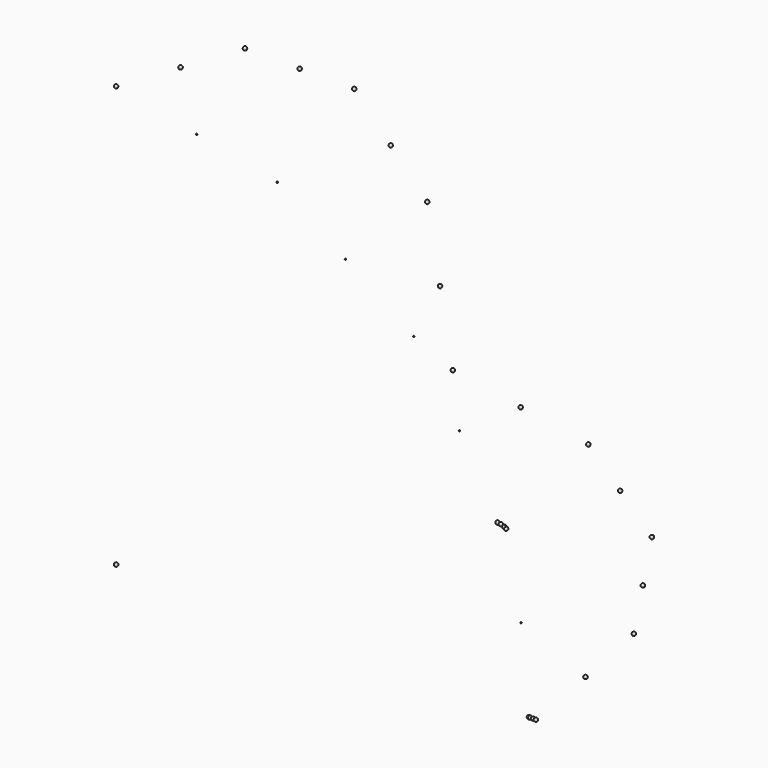
from build123d import *

# Parameters (mm, degrees)
SPHERE025_PLACEMENT_ANGLE = 314.444216
SPHERE026_PLACEMENT_ANGLE = 337.104281
SPHERE029_PLACEMENT_ANGLE = 45.555784
SPHERE030_PLACEMENT_ANGLE = 45.555784
SPHERE031_PLACEMENT_ANGLE = 22.895719
SPHERE032_PLACEMENT_ANGLE = 45.555784


with BuildPart() as sphere:
    # Sphere → Sphere (revolve)
    with BuildSketch(Plane(origin=(3500, 0, 0), x_dir=(1, 0, 0), z_dir=(0, -1, 0))):
        with BuildLine():
            ThreePointArc((0, -5), (5, 0), (0, 5))
            Line((0, 5), (0, -5))
        make_face()
    revolve(axis=Axis((3500, 0, 0), (0, 0, 1)))


with BuildPart() as sphere001:
    # Sphere001 → Sphere001 (revolve)
    with BuildSketch(Plane.XZ):
        with BuildLine():
            ThreePointArc((0, -15), (15, 0), (0, 15))
            Line((0, 15), (0, -15))
        make_face()
    revolve(axis=Axis((0, 0, 0), (0, 0, 1)))


with BuildPart() as sphere002:
    # Sphere002 → Sphere002 (revolve)
    with BuildSketch(Plane(origin=(0, 0, 3500), x_dir=(1, 0, 0), z_dir=(0, -1, 0))):
        with BuildLine():
            ThreePointArc((0, -15), (15, 0), (0, 15))
            Line((0, 15), (0, -15))
        make_face()
    revolve(axis=Axis((0, 0, 3500), (0, 0, 1)))


with BuildPart() as sphere003:
    # Sphere003 → Sphere003 (revolve)
    with BuildSketch(Plane(origin=(1339.392013, 0, 3233.578364), x_dir=(1, 0, 0), z_dir=(0, -1, 0))):
        with BuildLine():
            ThreePointArc((0, -5), (5, 0), (0, 5))
            Line((0, 5), (0, -5))
        make_face()
    revolve(axis=Axis((1339.392013, 0, 3233.578364), (0, 0, 1)))


with BuildPart() as sphere004:
    # Sphere004 → Sphere004 (revolve)
    with BuildSketch(Plane(origin=(2474.873734, 0, 2474.873734), x_dir=(1, 0, 0), z_dir=(0, -1, 0))):
        with BuildLine():
            ThreePointArc((0, -5), (5, 0), (0, 5))
            Line((0, 5), (0, -5))
        make_face()
    revolve(axis=Axis((2474.873734, 0, 2474.873734), (0, 0, 1)))


with BuildPart() as sphere005:
    # Sphere005 → Sphere005 (revolve)
    with BuildSketch(Plane(origin=(3233.578364, 0, 1339.392013), x_dir=(1, 0, 0), z_dir=(0, -1, 0))):
        with BuildLine():
            ThreePointArc((0, -5), (5, 0), (0, 5))
            Line((0, 5), (0, -5))
        make_face()
    revolve(axis=Axis((3233.578364, 0, 1339.392013), (0, 0, 1)))


with BuildPart() as sphere006:
    # Sphere006 → Sphere006 (revolve)
    with BuildSketch(Plane.XZ.offset(-3500)):
        with BuildLine():
            ThreePointArc((0, -15), (15, 0), (0, 15))
            Line((0, 15), (0, -15))
        make_face()
    revolve(axis=Axis((0, 3500, 0), (0, 0, 1)))


with BuildPart() as sphere007:
    # Sphere007 → Sphere007 (revolve)
    with BuildSketch(Plane(origin=(0, 3233.578364, 1339.392013), x_dir=(1, 0, 0), z_dir=(0, -1, 0))):
        with BuildLine():
            ThreePointArc((0, -15), (15, 0), (0, 15))
            Line((0, 15), (0, -15))
        make_face()
    revolve(axis=Axis((0, 3233.578364, 1339.392013), (0, 0, 1)))


with BuildPart() as sphere008:
    # Sphere008 → Sphere008 (revolve)
    with BuildSketch(Plane(origin=(0, 2474.873734, 2474.873734), x_dir=(1, 0, 0), z_dir=(0, -1, 0))):
        with BuildLine():
            ThreePointArc((0, -15), (15, 0), (0, 15))
            Line((0, 15), (0, -15))
        make_face()
    revolve(axis=Axis((0, 2474.873734, 2474.873734), (0, 0, 1)))


with BuildPart() as sphere009:
    # Sphere009 → Sphere009 (revolve)
    with BuildSketch(Plane(origin=(0, 1339.392013, 3233.578364), x_dir=(1, 0, 0), z_dir=(0, -1, 0))):
        with BuildLine():
            ThreePointArc((0, -15), (15, 0), (0, 15))
            Line((0, 15), (0, -15))
        make_face()
    revolve(axis=Axis((0, 1339.392013, 3233.578364), (0, 0, 1)))


with BuildPart() as sphere010:
    # Sphere010 → Sphere010 (revolve)
    with BuildSketch(Plane(origin=(1339.392013, 3233.578364, 0), x_dir=(1, 0, 0), z_dir=(0, -1, 0))):
        with BuildLine():
            ThreePointArc((0, -15), (15, 0), (0, 15))
            Line((0, 15), (0, -15))
        make_face()
    revolve(axis=Axis((1339.392013, 3233.578364, 0), (0, 0, 1)))


with BuildPart() as sphere011:
    # Sphere011 → Sphere011 (revolve)
    with BuildSketch(Plane(origin=(2474.873734, 2474.873734, 0), x_dir=(1, 0, 0), z_dir=(0, -1, 0))):
        with BuildLine():
            ThreePointArc((0, -15), (15, 0), (0, 15))
            Line((0, 15), (0, -15))
        make_face()
    revolve(axis=Axis((2474.873734, 2474.873734, 0), (0, 0, 1)))


with BuildPart() as sphere012:
    # Sphere012 → Sphere012 (revolve)
    with BuildSketch(Plane(origin=(3233.578364, 1339.392013, 0), x_dir=(1, 0, 0), z_dir=(0, -1, 0))):
        with BuildLine():
            ThreePointArc((0, -15), (15, 0), (0, 15))
            Line((0, 15), (0, -15))
        make_face()
    revolve(axis=Axis((3233.578364, 1339.392013, 0), (0, 0, 1)))


with BuildPart() as sphere013:
    # Sphere013 → Sphere013 (revolve)
    with BuildSketch(Plane(origin=(3366.789182, 669.696007, 0), x_dir=(1, 0, 0), z_dir=(0, -1, 0))):
        with BuildLine():
            ThreePointArc((0, -15), (15, 0), (0, 15))
            Line((0, 15), (0, -15))
        make_face()
    revolve(axis=Axis((3366.789182, 669.696007, 0), (0, 0, 1)))


with BuildPart() as sphere014:
    # Sphere014 → Sphere014 (revolve)
    with BuildSketch(Plane(origin=(2854.226049, 1907.132874, 0), x_dir=(1, 0, 0), z_dir=(0, -1, 0))):
        with BuildLine():
            ThreePointArc((0, -15), (15, 0), (0, 15))
            Line((0, 15), (0, -15))
        make_face()
    revolve(axis=Axis((2854.226049, 1907.132874, 0), (0, 0, 1)))


with BuildPart() as sphere015:
    # Sphere015 → Sphere015 (revolve)
    with BuildSketch(Plane(origin=(1907.132874, 2854.226049, 0), x_dir=(1, 0, 0), z_dir=(0, -1, 0))):
        with BuildLine():
            ThreePointArc((0, -15), (15, 0), (0, 15))
            Line((0, 15), (0, -15))
        make_face()
    revolve(axis=Axis((1907.132874, 2854.226049, 0), (0, 0, 1)))


with BuildPart() as sphere016:
    # Sphere016 → Sphere016 (revolve)
    with BuildSketch(Plane(origin=(669.696007, 3366.789182, 0), x_dir=(1, 0, 0), z_dir=(0, -1, 0))):
        with BuildLine():
            ThreePointArc((0, -15), (15, 0), (0, 15))
            Line((0, 15), (0, -15))
        make_face()
    revolve(axis=Axis((669.696007, 3366.789182, 0), (0, 0, 1)))


with BuildPart() as sphere017:
    # Sphere017 → Sphere017 (revolve)
    with BuildSketch(Plane(origin=(0, 3366.789182, 669.696007), x_dir=(1, 0, 0), z_dir=(0, -1, 0))):
        with BuildLine():
            ThreePointArc((0, -15), (15, 0), (0, 15))
            Line((0, 15), (0, -15))
        make_face()
    revolve(axis=Axis((0, 3366.789182, 669.696007), (0, 0, 1)))


with BuildPart() as sphere018:
    # Sphere018 → Sphere018 (revolve)
    with BuildSketch(Plane(origin=(0, 2854.226049, 1907.132874), x_dir=(1, 0, 0), z_dir=(0, -1, 0))):
        with BuildLine():
            ThreePointArc((0, -15), (15, 0), (0, 15))
            Line((0, 15), (0, -15))
        make_face()
    revolve(axis=Axis((0, 2854.226049, 1907.132874), (0, 0, 1)))


with BuildPart() as sphere019:
    # Sphere019 → Sphere019 (revolve)
    with BuildSketch(Plane(origin=(0, 1907.132874, 2854.226049), x_dir=(1, 0, 0), z_dir=(0, -1, 0))):
        with BuildLine():
            ThreePointArc((0, -15), (15, 0), (0, 15))
            Line((0, 15), (0, -15))
        make_face()
    revolve(axis=Axis((0, 1907.132874, 2854.226049), (0, 0, 1)))


with BuildPart() as sphere020:
    # Sphere020 → Sphere020 (revolve)
    with BuildSketch(Plane(origin=(0, 669.696007, 3366.789182), x_dir=(1, 0, 0), z_dir=(0, -1, 0))):
        with BuildLine():
            ThreePointArc((0, -15), (15, 0), (0, 15))
            Line((0, 15), (0, -15))
        make_face()
    revolve(axis=Axis((0, 669.696007, 3366.789182), (0, 0, 1)))


with BuildPart() as sphere021:
    # Sphere021 → Sphere021 (revolve)
    with BuildSketch(Plane(origin=(669.696007, 0, 3366.789182), x_dir=(1, 0, 0), z_dir=(0, -1, 0))):
        with BuildLine():
            ThreePointArc((0, -5), (5, 0), (0, 5))
            Line((0, 5), (0, -5))
        make_face()
    revolve(axis=Axis((669.696007, 0, 3366.789182), (0, 0, 1)))


with BuildPart() as sphere022:
    # Sphere022 → Sphere022 (revolve)
    with BuildSketch(Plane(origin=(1907.132874, 0, 2854.226049), x_dir=(1, 0, 0), z_dir=(0, -1, 0))):
        with BuildLine():
            ThreePointArc((0, -5), (5, 0), (0, 5))
            Line((0, 5), (0, -5))
        make_face()
    revolve(axis=Axis((1907.132874, 0, 2854.226049), (0, 0, 1)))


with BuildPart() as sphere023:
    # Sphere023 → Sphere023 (revolve)
    with BuildSketch(Plane(origin=(2854.226049, 0, 1907.132874), x_dir=(1, 0, 0), z_dir=(0, -1, 0))):
        with BuildLine():
            ThreePointArc((0, -5), (5, 0), (0, 5))
            Line((0, 5), (0, -5))
        make_face()
    revolve(axis=Axis((2854.226049, 0, 1907.132874), (0, 0, 1)))


with BuildPart() as sphere024:
    # Sphere024 → Sphere024 (revolve)
    with BuildSketch(Plane(origin=(3366.789182, 0, 669.696007), x_dir=(1, 0, 0), z_dir=(0, -1, 0))):
        with BuildLine():
            ThreePointArc((0, -5), (5, 0), (0, 5))
            Line((0, 5), (0, -5))
        make_face()
    revolve(axis=Axis((3366.789182, 0, 669.696007), (0, 0, 1)))


with BuildPart() as sphere025:
    # Sphere025 → Sphere025 (revolve)
    with BuildSketch(Plane.XZ):
        with BuildLine():
            ThreePointArc((0, -15), (15, 0), (0, 15))
            Line((0, 15), (0, -15))
        make_face()
    revolve(axis=Axis((0, 0, 0), (0, 0, 1)))


with BuildPart() as sphere025_1:
    # Sphere025 placement: moved
    add(sphere025.part.moved(Location((3466.537331, 0, 0))).rotate(Axis((3466.537331, 0, 0), (0, -1, 0)), SPHERE025_PLACEMENT_ANGLE))


with BuildPart() as sphere026:
    # Sphere026 → Sphere026 (revolve)
    with BuildSketch(Plane.XZ):
        with BuildLine():
            ThreePointArc((0, -15), (15, 0), (0, 15))
            Line((0, 15), (0, -15))
        make_face()
    revolve(axis=Axis((0, 0, 0), (0, 0, 1)))


with BuildPart() as sphere026_1:
    # Sphere026 placement: moved
    add(sphere026.part.moved(Location((3442.679348, 0, 0))).rotate(Axis((3442.679348, 0, 0), (0, -1, 0)), SPHERE026_PLACEMENT_ANGLE))


with BuildPart() as sphere027:
    # Sphere027 → Sphere027 (revolve)
    with BuildSketch(Plane(origin=(3171.446062, 0, 1339.392013), x_dir=(1, 0, 0), z_dir=(0, -1, 0))):
        with BuildLine():
            ThreePointArc((0, -15), (15, 0), (0, 15))
            Line((0, 15), (0, -15))
        make_face()
    revolve(axis=Axis((3171.446062, 0, 1339.392013), (0, 0, 1)))


with BuildPart() as sphere028:
    # Sphere028 → Sphere028 (revolve)
    with BuildSketch(Plane(origin=(3432.748481, 0, 0), x_dir=(1, 0, 0), z_dir=(0, -1, 0))):
        with BuildLine():
            ThreePointArc((0, -15), (15, 0), (0, 15))
            Line((0, 15), (0, -15))
        make_face()
    revolve(axis=Axis((3432.748481, 0, 0), (0, 0, 1)))


with BuildPart() as sphere029:
    # Sphere029 → Sphere029 (revolve)
    with BuildSketch(Plane.XZ):
        with BuildLine():
            ThreePointArc((0, -15), (15, 0), (0, 15))
            Line((0, 15), (0, -15))
        make_face()
    revolve(axis=Axis((0, 0, 0), (0, 0, 1)))


with BuildPart() as sphere029_1:
    # Sphere029 placement: moved
    add(sphere029.part.moved(Location((3242.627858, 0, 1317.33237))).rotate(Axis((3242.627858, 0, 1317.33237), (0, 1, 0)), SPHERE029_PLACEMENT_ANGLE))


with BuildPart() as sphere030:
    # Sphere030 → Sphere030 (revolve)
    with BuildSketch(Plane.XZ):
        with BuildLine():
            ThreePointArc((0, -15), (15, 0), (0, 15))
            Line((0, 15), (0, -15))
        make_face()
    revolve(axis=Axis((0, 0, 0), (0, 0, 1)))


with BuildPart() as sphere030_1:
    # Sphere030 placement: moved
    add(sphere030.part.moved(Location((3490.232234, 0, 0))).rotate(Axis((3490.232234, 0, 0), (0, 1, 0)), SPHERE030_PLACEMENT_ANGLE))


with BuildPart() as sphere031:
    # Sphere031 → Sphere031 (revolve)
    with BuildSketch(Plane.XZ):
        with BuildLine():
            ThreePointArc((0, -15), (15, 0), (0, 15))
            Line((0, 15), (0, -15))
        make_face()
    revolve(axis=Axis((0, 0, 0), (0, 0, 1)))


with BuildPart() as sphere031_1:
    # Sphere031 placement: moved
    add(sphere031.part.moved(Location((3198.944368, 0, 1335.528359))).rotate(Axis((3198.944368, 0, 1335.528359), (0, 1, 0)), SPHERE031_PLACEMENT_ANGLE))


with BuildPart() as sphere032:
    # Sphere032 → Sphere032 (revolve)
    with BuildSketch(Plane.XZ):
        with BuildLine():
            ThreePointArc((0, -15), (15, 0), (0, 15))
            Line((0, 15), (0, -15))
        make_face()
    revolve(axis=Axis((0, 0, 0), (0, 0, 1)))


with BuildPart() as sphere032_1:
    # Sphere032 placement: moved
    add(sphere032.part.moved(Location((3228.39772, 0, 1326.336762))).rotate(Axis((3228.39772, 0, 1326.336762), (0, 1, 0)), SPHERE032_PLACEMENT_ANGLE))


solid = Compound([sphere.part, sphere001.part, sphere002.part, sphere003.part, sphere004.part, sphere005.part, sphere006.part, sphere007.part, sphere008.part, sphere009.part, sphere010.part, sphere011.part, sphere012.part, sphere013.part, sphere014.part, sphere015.part, sphere016.part, sphere017.part, sphere018.part, sphere019.part, sphere020.part, sphere021.part, sphere022.part, sphere023.part, sphere024.part, sphere025_1.part, sphere026_1.part, sphere027.part, sphere028.part, sphere029_1.part, sphere030_1.part, sphere031_1.part, sphere032_1.part])
